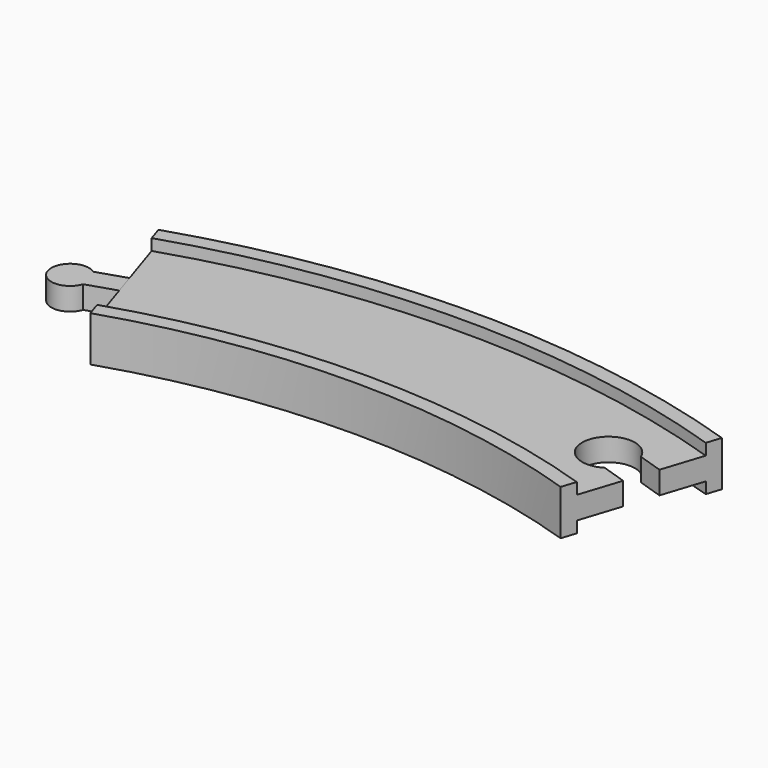
from build123d import *

# Parameters (mm, degrees)
POCKET_DEPTH = 9.001
PAD_DEPTH    = 3


with BuildPart() as body:
    # AdditivePipe: sweep along a path in Sketch
    with BuildLine(Plane.XY) as additivepipe_path:
        ThreePointArc((68.601773, 211.134547), (0, 222), (-68.601773, 211.134547))
    # Sketch002 (on DatumPlane) → AdditivePipe (sweep)
    with BuildSketch(Plane(origin=(-68.601773, 211.134547, 0), x_dir=(-0.309017, 0.951057, 0), z_dir=(0.951057, 0.309017, 0))):
        Polygon((-20, 6), (-20, -6), (-16, -6), (-16, -3), (-9, -3), (9, -3), (16, -3), (16, -6), (20, -6), (20, 6), (16, 6), (16, 3), (9, 3), (-9, 3), (-16, 3), (-16, 6), align=None)
    sweep(path=additivepipe_path.line)

    # Sketch004 (on Face18 of AdditivePipe) → Pocket (cut, through all)
    with BuildSketch(Plane(origin=(-68.601773, 211.134547, 3), x_dir=(0.309017, -0.951057, 0), z_dir=(0, 0, 1))):
        with BuildLine():
            Line((38.757651, 133.13336), (46.038804, 127.843292))
            Line((46.038804, 127.843292), (41.924307, 122.180173))
            ThreePointArc((34.643154, 127.470241), (31.017586, 114.824218), (41.924307, 122.180173))
            Line((38.757651, 133.13336), (34.643154, 127.470241))
        make_face()
    extrude(amount=-POCKET_DEPTH, mode=Mode.SUBTRACT)


with BuildPart() as body001:
    # Sketch003 → Pad (new body, symmetric)
    with BuildSketch(Plane.XY):
        with BuildLine():
            Line((-68.601773, 211.134547), (-67.674722, 208.281377))
            Line((-67.674722, 208.281377), (-75.283174, 205.809241))
            ThreePointArc((-77.137276, 211.51558), (-84.769734, 205.881258), (-75.283174, 205.809241))
            Line((-69.528824, 213.987716), (-77.137276, 211.51558))
            Line((-68.601773, 211.134547), (-69.528824, 213.987716))
        make_face()
    extrude(amount=PAD_DEPTH, both=True)


solid = Compound([body.part, body001.part])
